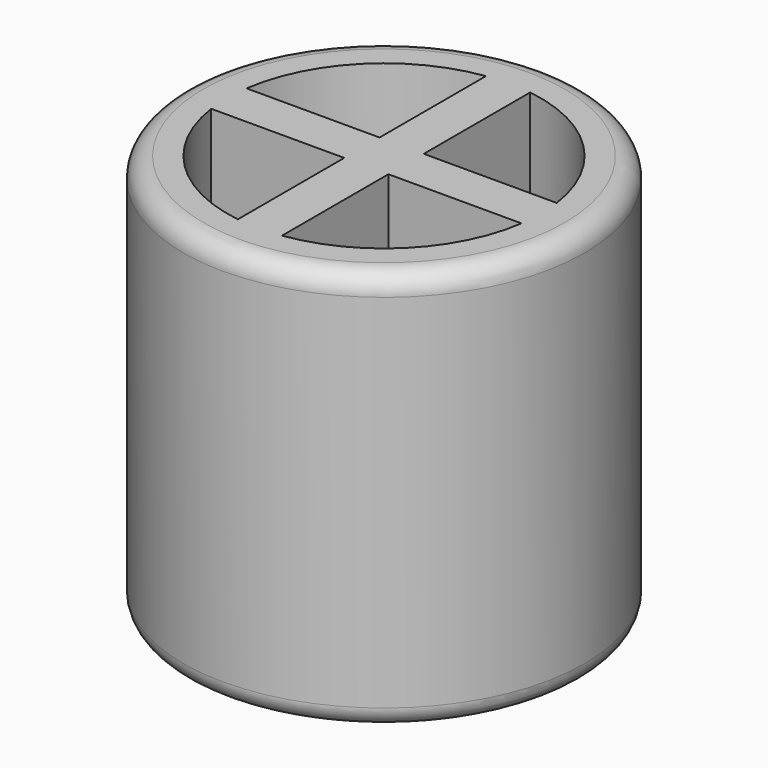
from build123d import *

# Parameters (mm, degrees)
F0_R     = 5
F1_DEPTH = 10
F2_T     = -1.1
F4_DEPTH = 8.9
F5_R     = 0.5


with BuildPart() as f1:
    # F0 (on Top) → F1 (new body)
    with BuildSketch(Plane.XY):
        Circle(F0_R)
    extrude(amount=F1_DEPTH)

    # F2
    f2_openings = [f1.faces().sort_by_distance(p)[0] for p in [
        (0, 0, 10),
    ]]
    offset(amount=F2_T, openings=f2_openings)

    # F3 (on face) → F4 (join, through all)
    with BuildSketch(Plane.XY.offset(1.1)):
        with BuildLine():
            Line((-0.55, 0.55), (-3.861023, 0.55))
            ThreePointArc((-3.861023, 0.55), (-3.9, 0), (-3.861023, -0.55))
            Line((-3.861023, -0.55), (-0.55, -0.55))
            Line((-0.55, -0.55), (-0.55, -3.861023))
            ThreePointArc((-0.55, -3.861023), (0, -3.9), (0.55, -3.861023))
            Line((0.55, -3.861023), (0.55, -0.55))
            Line((0.55, -0.55), (3.861023, -0.55))
            ThreePointArc((3.861023, -0.55), (3.9, 0), (3.861023, 0.55))
            Line((3.861023, 0.55), (0.55, 0.55))
            Line((0.55, 0.55), (0.55, 3.861023))
            ThreePointArc((0.55, 3.861023), (0, 3.9), (-0.55, 3.861023))
            Line((-0.55, 3.861023), (-0.55, 0.55))
        make_face()
    extrude(amount=F4_DEPTH)

    # F5
    f5_edges = [f1.edges().sort_by_distance(p)[0] for p in [
        (-5, 0, 10),
        (-5, 0, 0),
    ]]
    fillet(f5_edges, radius=F5_R)


solid = f1.part
